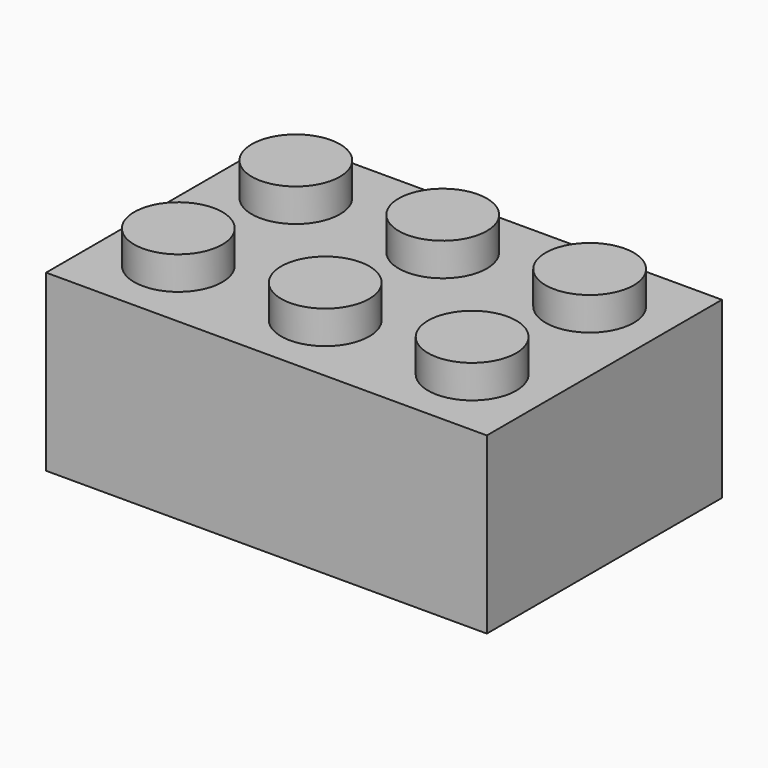
from build123d import *

# Parameters (mm, degrees)
F0_W     = 24
F0_H     = 16
F1_DEPTH = 9.5
F2_R     = 2.4
F3_DEPTH = 1.8


with BuildPart() as f1:
    # F0 (on Top) → F1 (new body)
    with BuildSketch(Plane.XY):
        with Locations((-12, 8)):
            Rectangle(F0_W, F0_H)
    extrude(amount=F1_DEPTH)

    # F2 (on face) → F3 (join)
    with BuildSketch(Plane.XY.offset(9.5)):
        with Locations((-20, 12)):
            Circle(F2_R)
        with Locations((-12, 12)):
            Circle(F2_R)
        with Locations((-4, 12)):
            Circle(F2_R)
        with Locations((-20, 4)):
            Circle(F2_R)
        with Locations((-12, 4)):
            Circle(F2_R)
        with Locations((-4, 4)):
            Circle(F2_R)
    extrude(amount=F3_DEPTH)


solid = f1.part
